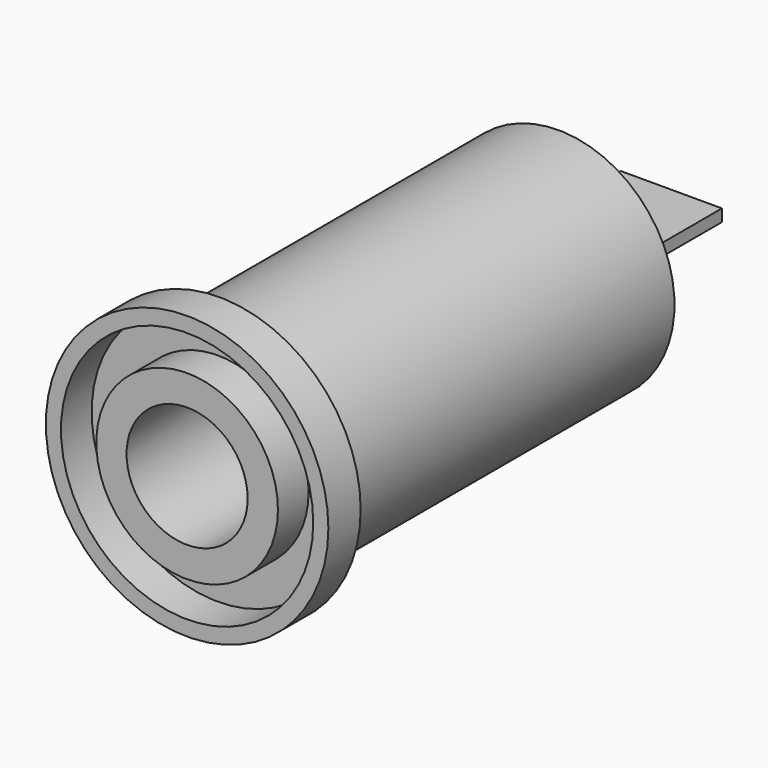
from build123d import *

# Parameters (mm, degrees)
F0_R     = 7
F1_DEPTH = 2
F2_R     = 5.75
F3_DEPTH = 21
F4_R     = 3
F5_DEPTH = 20
F6_R     = 6.25
F6_R_2   = 4.5
F7_DEPTH = 1.9
F8_W     = 5
F8_H     = 8
F9_DEPTH = 0.3


with BuildPart() as f1:
    # F0 (on Front) → F1 (new body)
    with BuildSketch(Plane.XZ):
        Circle(F0_R)
    extrude(amount=-F1_DEPTH)

    # F2 (on face) → F3 (join)
    with BuildSketch(Plane(origin=(0, 2, 0), x_dir=(-1, 0, 0), z_dir=(0, 1, 0))):
        Circle(F2_R)
    extrude(amount=F3_DEPTH)

    # F4 (on face) → F5 (cut)
    with BuildSketch(Plane.XZ):
        Circle(F4_R)
    extrude(amount=-F5_DEPTH, mode=Mode.SUBTRACT)

    # F6 (on face) → F7 (cut)
    with BuildSketch(Plane.XZ):
        Circle(F6_R)
        Circle(F6_R_2, mode=Mode.SUBTRACT)
    extrude(amount=-F7_DEPTH, mode=Mode.SUBTRACT)

    # F8 (on Top) → F9 (join, symmetric)
    with BuildSketch(Plane.XY):
        with Locations((0, 26)):
            Rectangle(F8_W, F8_H)
    extrude(amount=F9_DEPTH, both=True)


solid = f1.part
